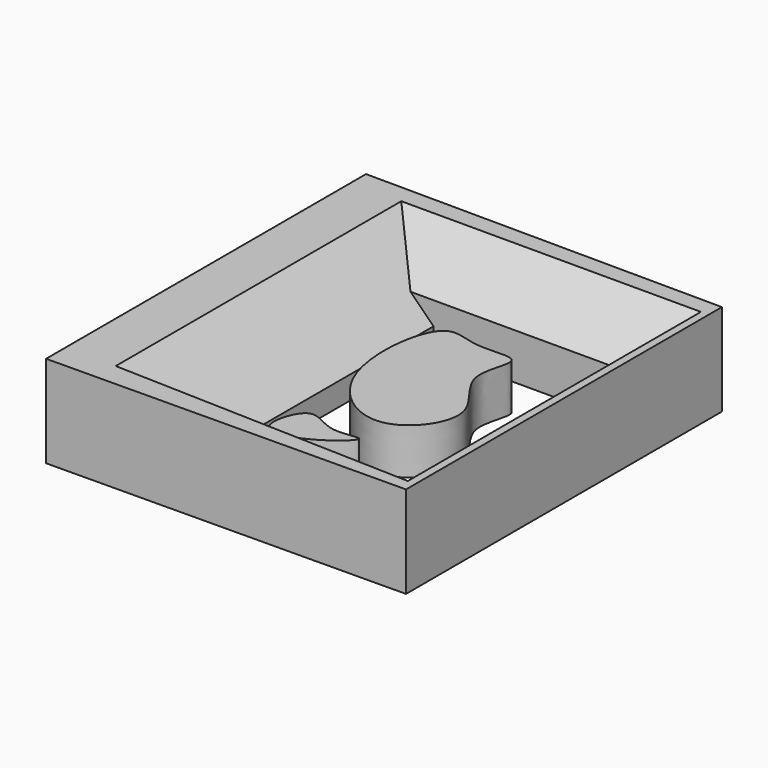
from build123d import *

# Parameters (mm, degrees)
F1_DEPTH = 25.4
F2_SIZE  = 19.05
F3_SIZE  = 12.7
F4_SIZE  = 11.43
F6_DEPTH = 12.7


with BuildPart() as f1:
    # F0 (on Top) → F1 (new body)
    with BuildSketch(Plane.XY):
        Polygon((-20.4903651029, 44.8836609721), (-53.3864609897, 62.7256110311), (-53.3864609897, -47.6714633405), (-20.4903651029, -30.1082935184), align=None)
        Polygon((45.3018322587, 62.1680468321), (-53.3864609897, 62.7256110311), (-20.4903651029, 44.8836609721), (24.1145156324, 44.8836609721), align=None)
        Polygon((45.3018322587, -46.8351207674), (45.3018322587, 62.1680468321), (24.1145156324, 44.8836609721), (24.1145156324, -31.5021947026), align=None)
        Polygon((-20.4903651029, -30.1082935184), (-53.3864609897, -47.6714633405), (45.3018322587, -46.8351207674), (24.1145156324, -31.5021947026), align=None)
    extrude(amount=F1_DEPTH)

    # F2
    f2_edges = [f1.edges().sort_by_distance(p)[0] for p in [
        (-20.490365, 7.387684, 25.4),
        (24.114516, 6.690733, 25.4),
    ]]
    chamfer(f2_edges, length=F2_SIZE)

    # F3
    f3_edges = [f1.edges().sort_by_distance(p)[0] for p in [
        (1.812075, 44.883661, 25.4),
    ]]
    chamfer(f3_edges, length=F3_SIZE)

    # F4
    f4_edges = [f1.edges().sort_by_distance(p)[0] for p in [
        (1.812075, -30.805244, 25.4),
    ]]
    chamfer(f4_edges, length=F4_SIZE)


with BuildPart() as f6:
    # F5 (on Top) → F6 (new body)
    with BuildSketch(Plane.XY):
        with BuildLine():
            add(Edge.make_bspline(
                [(-9.7902296111, 35.119459033), (-13.9600314327, 31.9671192837), (-17.6768482544, 4.563162706), (7.1950515709, -13.099769391), (22.8519345715, 8.6072810613), (4.8512330884, 20.8593058063), (14.1187603019, 36.4323892034), (-0.7011915668, 32.8433910096), (-7.310382144, 36.9942056223), (-9.7902296111, 35.119459033)],
                knots=[0, 0, 0, 0, 0.1878028732, 0.3608969238, 0.5083654729, 0.6569516297, 0.774297262, 0.8883106441, 1, 1, 1, 1], degree=3))
        make_face()
    extrude(amount=F6_DEPTH)


with BuildPart() as f6b:
    # F5 (on Top) → F6, piece 2 (new body)
    with BuildSketch(Plane.XY):
        with BuildLine():
            add(Edge.make_bspline(
                [(-11.4156901836, -23.1283828616), (-9.8528718543, -25.8123261533), (0.2637004008, -23.3887641196), (11.0865715709, -13.4223369011), (-0.9156724072, -17.6664935078), (-9.3362887382, -8.8161935634), (-12.8983318733, -20.5821328321), (-11.4156901836, -23.1283828616)],
                knots=[0, 0, 0, 0, 0.2195998788, 0.4222999547, 0.5979031768, 0.7916661654, 1, 1, 1, 1], degree=3))
        make_face()
    extrude(amount=F6_DEPTH)


solid = Compound([f1.part, f6.part, f6b.part])
